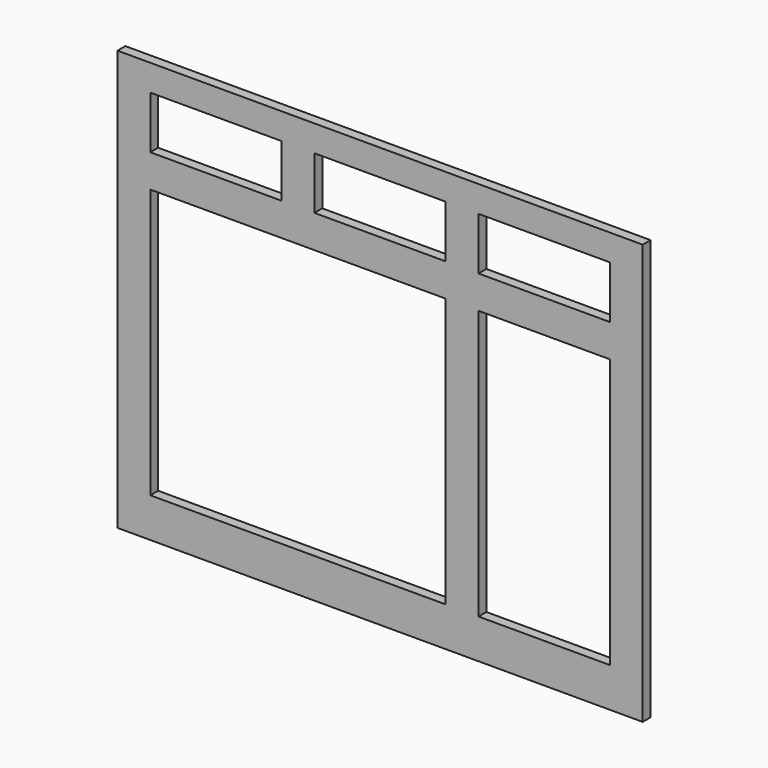
from build123d import *

# Parameters (mm, degrees)
F0_W     = 1016
F0_H     = 812.8
F1_DEPTH = 19.05
F2_W     = 254
F2_H     = 101.6
F2_W_2   = 571.5
F2_H_2   = 520.7
F3_DEPTH = 19.051


with BuildPart() as f1:
    # F0 (on Front) → F1 (new body)
    with BuildSketch(Plane.XZ):
        Rectangle(F0_W, F0_H)
    extrude(amount=F1_DEPTH)

    # F2 (on face) → F3 (cut, through all)
    with BuildSketch(Plane.XZ.offset(19.05)):
        with Locations((317.5, 304.8)):
            Rectangle(F2_W, F2_H)
        with Locations((0, 304.8)):
            Rectangle(F2_W, F2_H)
        with Locations((-317.5, 304.8)):
            Rectangle(F2_W, F2_H)
        with Locations((-158.75, -69.85)):
            Rectangle(F2_W_2, F2_H_2)
        with Locations((317.5, -69.85)):
            Rectangle(F2_W, F2_H_2)
    extrude(amount=-F3_DEPTH, mode=Mode.SUBTRACT)


solid = f1.part
